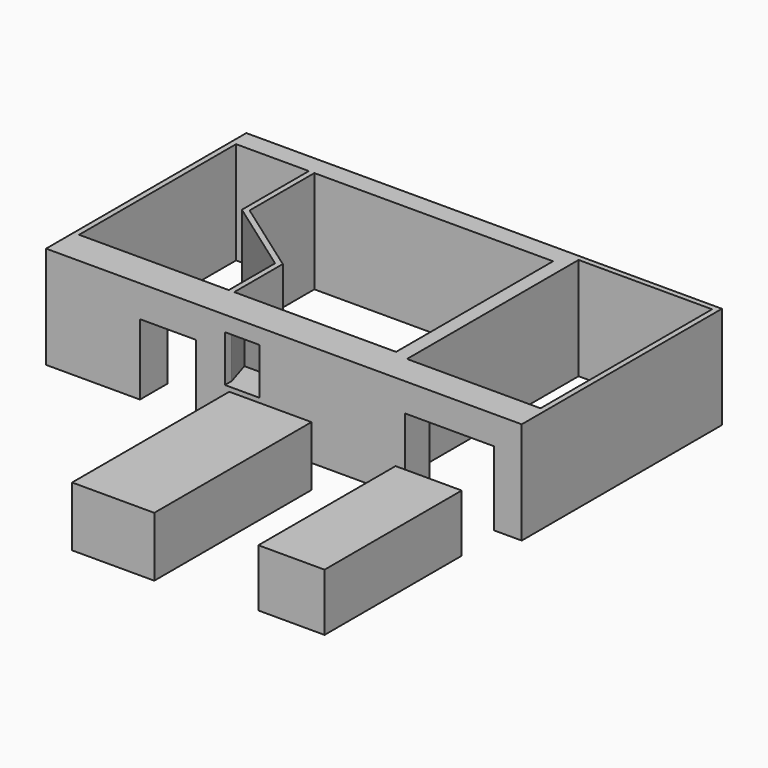
from build123d import *

# Parameters (mm, degrees)
F0_W      = 1.35
F0_H      = 8.5
F1_DEPTH  = 25.3
F2_W      = 22
F2_H      = 7
F3_DEPTH  = 7.5
F4_W      = 12.5
F4_H      = 3.8
F4_H_2    = 10
F5_DEPTH  = 8.5
F6_W      = 13.8
F6_H      = 3.3
F7_DEPTH  = 8.5
F6_H_2    = 4.5
F8_DEPTH  = 1.35
F9_W      = 20.31
F9_H      = 48.56
F10_DEPTH = 14.77
F11_W     = 16.35
F11_H     = 42.37
F12_DEPTH = 14.2


with BuildPart() as f1:
    # F0 (on Top) → F1 (new body)
    with BuildSketch(Plane.XY):
        Polygon((30.4358748317, -29.9773273379), (30.4358748317, 23.0226726621), (63.4358748317, 23.0226726621), (63.4358748317, -29.9773273379), (57.9358748317, -29.9773273379), (57.9358748317, -37.4773273379), (64.7858748317, -37.4773273379), (64.7858748317, 24.3726726621), (-33.4141251683, 24.3726726621), (-52.7641251683, 24.3726726621), (-52.7641251683, -37.4773273379), (-29.5641251683, -37.4773273379), (-29.5641251683, -28.9773273379), (-51.4141251683, -28.9773273379), (-51.4141251683, 19.5226726621), (-33.4141251683, 19.5226726621), (-33.4141251683, -1.1741919408), (-14.4141251683, -14.6741919408), (-14.4141251683, -28.9773273379), (-14.4141251683, -37.4773273379), (-8.5641251683, -37.4773273379), (-8.5641251683, -35.3718562494), (-10.5641251683, -28.9773273379), (-13.0641251683, -28.9773273379), (-13.0641251683, -13.9773273379), (-32.0641251683, -0.4773273379), (-32.0641251683, 19.5226726621), (26.9358748317, 19.5226726621), (26.9358748317, -28.9773273379), (1.9358748317, -28.9773273379), (-0.0641251683, -35.3718562494), (-0.0641251683, -37.4773273379), (35.9358748317, -37.4773273379), (35.9358748317, -29.9773273379), align=None)
        with Locations((-15.0891251683, -33.2273273379)):
            Rectangle(F0_W, F0_H)
    extrude(amount=F1_DEPTH)

    # F2 (on face) → F3 (join, through all)
    with BuildSketch(Plane.XZ.offset(37.4773273379)):
        with Locations((46.9358748317, 21.8)):
            Rectangle(F2_W, F2_H)
    extrude(amount=-F3_DEPTH)

    # F4 (on face) → F5 (join, through all)
    with BuildSketch(Plane(origin=(0, -28.9773273379, 0), x_dir=(-1, 0, 0), z_dir=(0, 1, 0))):
        with Locations((4.3141251683, 23.4)):
            Rectangle(F4_W, F4_H)
        with Locations((4.3141251683, 5)):
            Rectangle(F4_W, F4_H_2)
    extrude(amount=-F5_DEPTH)

    # F6 (on face) → F7 (join, through all)
    with BuildSketch(Plane.XZ.offset(37.4773273379)):
        with Locations((-22.6641251683, 23.65)):
            Rectangle(F6_W, F6_H)
    extrude(amount=-F7_DEPTH)

    # F6 (on face) → F8 (join)
    with BuildSketch(Plane.XZ.offset(37.4773273379)):
        with Locations((-22.6641251683, 19.75)):
            Rectangle(F6_W, F6_H_2)
    extrude(amount=-F8_DEPTH)


with BuildPart() as f10:
    # F9 (on Top) → F10 (new body)
    with BuildSketch(Plane.XY):
        with Locations((9.7315327984, -70.5840182614)):
            Rectangle(F9_W, F9_H)
    extrude(amount=F10_DEPTH)


with BuildPart() as f12:
    # F11 (on Top) → F12 (new body)
    with BuildSketch(Plane.XY):
        with Locations((51.5299370281, -70.8480384201)):
            Rectangle(F11_W, F11_H)
    extrude(amount=F12_DEPTH)


solid = Compound([f1.part, f10.part, f12.part])
